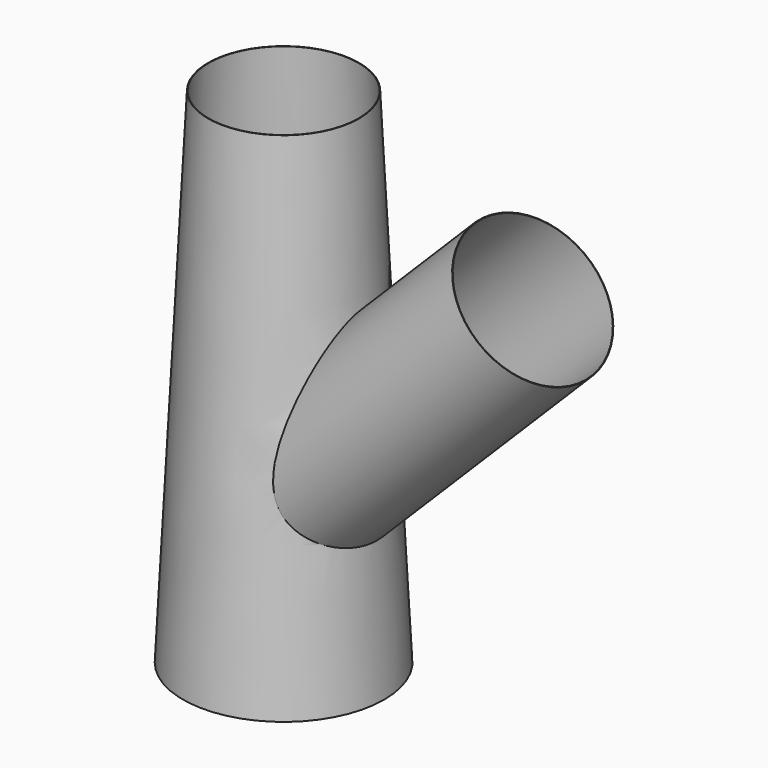
from build123d import *

# Parameters (mm, degrees)
F5_R      = 76.2
F4_R      = 101.6
F7_R      = 76.2
F8_DEPTH  = 304.8
F9_R      = 75.7174
F12_DEPTH = 304.8
F10_R     = 75.7174
F11_R     = 101.1174


with BuildPart() as f6:
    # F5 (on face) → F6 section 0
    with BuildSketch(Plane(origin=(0, 0, 508), x_dir=(1, 0, 0), z_dir=(0, 0, -1))):
        Circle(F5_R)
    # F4 (on face) → F6 section 1
    with BuildSketch(Plane.XY):
        Circle(F4_R)
    loft()

    # F7 (on face) → F8 (join)
    with BuildSketch(Plane(origin=(327.647171, 0, 327.647171), x_dir=(0.707107, 0, -0.707107), z_dir=(0.707107, 0, 0.707107))):
        with Locations((-107.763073, 0)):
            Circle(F7_R)
    extrude(amount=-F8_DEPTH)

    # F9 (on face) → F12 (cut)
    with BuildSketch(Plane(origin=(327.647171, 0, 327.647171), x_dir=(0.707107, 0, -0.707107), z_dir=(0.707107, 0, 0.707107))):
        with Locations((-107.763073, 0)):
            Circle(F9_R)
    extrude(amount=-F12_DEPTH, mode=Mode.SUBTRACT)

    # F10 (on face) → F13 section 0
    with BuildSketch(Plane(origin=(0, 0, 508), x_dir=(1, 0, 0), z_dir=(0, 0, -1))):
        Circle(F10_R)
    # F11 (on face) → F13 section 1
    with BuildSketch(Plane.XY):
        Circle(F11_R)
    loft(mode=Mode.SUBTRACT)


solid = f6.part
